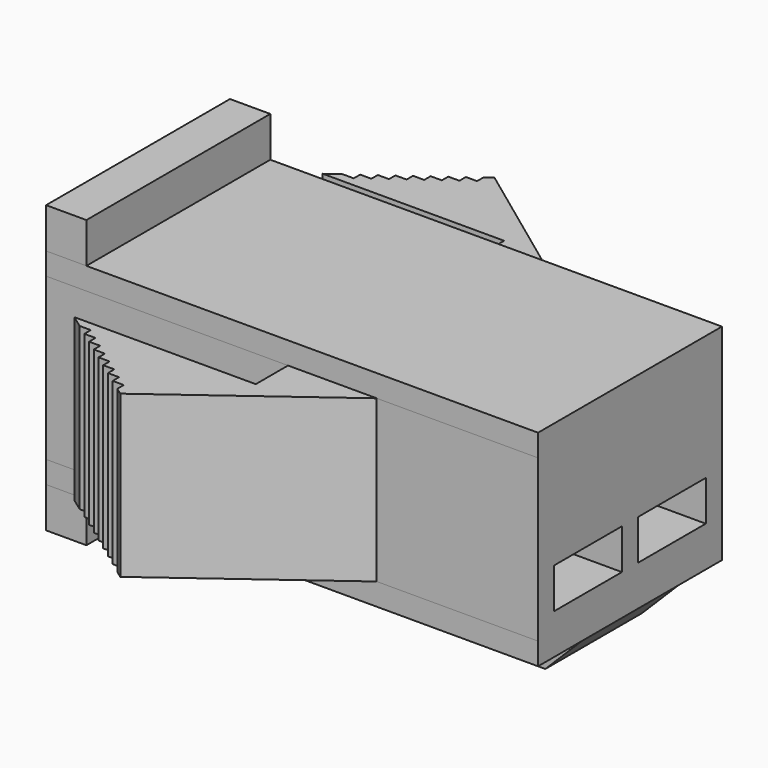
from build123d import *

# Parameters (mm, degrees)
F1_DEPTH  = 5.1
F2_W      = 3.345763
F2_H      = 0.55
F2_W_2    = 3.297828
F3_DEPTH  = 15
F5_DEPTH  = 25
F6_DEPTH  = 10
F7_W      = 5.7
F7_H      = 1
F7_W_2    = 1.2
F8_DEPTH  = 1
F11_DEPTH = 5.7
F12_W     = 1.586434
F12_H     = 1.404738
F12_W_2   = 1.617856
F12_H_2   = 1.427827
F13_DEPTH = 3
F14_W     = 2.1
F14_H     = 1
F15_DEPTH = 3
F16_W     = 2.3
F16_H     = 4.5
F17_DEPTH = 5


with BuildPart() as f1:
    # F0 (on Top) → F1 (new body)
    with BuildSketch(Plane.XY):
        Polygon((-0.1, 2.85), (-6.1, 2.85), (-6.1, -2.85), (-0.1, -2.85), (-0.1, -3.85), (-4.6, -3.85), (-1.9, -5.8), (2.1, -2.85), (6.1, -2.85), (6.1, 2.85), (2.1, 2.85), (-1.9, 5.8), (-4.6, 3.85), (-0.1, 3.85), align=None)
    extrude(amount=F1_DEPTH)

    # F2 (on face) → F3 (cut)
    with BuildSketch(Plane.YZ.offset(6.1)):
        with Locations((-4.522881, 4.825)):
            Rectangle(F2_W, F2_H)
        with Locations((-4.522881, 0.275)):
            Rectangle(F2_W, F2_H)
        with Locations((4.498914, 4.825)):
            Rectangle(F2_W_2, F2_H)
        with Locations((4.498914, 0.275)):
            Rectangle(F2_W_2, F2_H)
    extrude(amount=-F3_DEPTH, mode=Mode.SUBTRACT)

    # F4 (on face) → F5 (cut)
    with BuildSketch(Plane.XY.offset(4.55)):
        Polygon((-4.011046, 4.075356), (-4.011046, 4.275356), (-4.287969, 4.075356), align=None)
        Polygon((-3.734123, 4.275356), (-3.734123, 4.475356), (-4.011046, 4.275356), align=None)
        Polygon((-3.4572, 4.475356), (-3.4572, 4.675356), (-3.734123, 4.475356), align=None)
        Polygon((-3.180277, 4.675356), (-3.180277, 4.875356), (-3.4572, 4.675356), align=None)
        Polygon((-2.903354, 4.875356), (-2.903354, 5.075356), (-3.180277, 4.875356), align=None)
        Polygon((-2.626431, 5.075356), (-2.626431, 5.275356), (-2.903354, 5.075356), align=None)
        Polygon((-2.349508, 5.275356), (-2.349508, 5.475356), (-2.626431, 5.275356), align=None)
        Polygon((-2.349508, 5.475356), (-2.072585, 5.475356), (-2.072585, 5.675356), align=None)
        Polygon((-3.734123, -4.475356), (-3.4572, -4.675356), (-3.4572, -4.475356), align=None)
        Polygon((-2.072585, -5.475356), (-2.349508, -5.475356), (-2.072585, -5.675356), align=None)
        Polygon((-2.349508, -5.275356), (-2.626431, -5.275356), (-2.349508, -5.475356), align=None)
        Polygon((-2.626431, -5.075356), (-2.903354, -5.075356), (-2.626431, -5.275356), align=None)
        Polygon((-2.903354, -4.875356), (-3.180277, -4.875356), (-2.903354, -5.075356), align=None)
        Polygon((-3.180277, -4.675356), (-3.4572, -4.675356), (-3.180277, -4.875356), align=None)
        Polygon((-4.287969, -4.075356), (-4.011046, -4.275356), (-4.011046, -4.075356), align=None)
        Polygon((-4.011046, -4.275356), (-3.734123, -4.475356), (-3.734123, -4.275356), align=None)
    extrude(amount=-F5_DEPTH, mode=Mode.SUBTRACT)

    # F4 (on face) → F6 (cut)
    with BuildSketch(Plane.XY.offset(4.55)):
        Polygon((-4.011046, 4.075356), (-4.011046, 4.275356), (-4.287969, 4.075356), align=None)
        Polygon((-3.734123, 4.275356), (-3.734123, 4.475356), (-4.011046, 4.275356), align=None)
        Polygon((-3.4572, 4.475356), (-3.4572, 4.675356), (-3.734123, 4.475356), align=None)
        Polygon((-3.180277, 4.675356), (-3.180277, 4.875356), (-3.4572, 4.675356), align=None)
        Polygon((-2.903354, 4.875356), (-2.903354, 5.075356), (-3.180277, 4.875356), align=None)
        Polygon((-2.626431, 5.075356), (-2.626431, 5.275356), (-2.903354, 5.075356), align=None)
        Polygon((-2.349508, 5.275356), (-2.349508, 5.475356), (-2.626431, 5.275356), align=None)
        Polygon((-2.349508, 5.475356), (-2.072585, 5.475356), (-2.072585, 5.675356), align=None)
        Polygon((-3.734123, -4.475356), (-3.4572, -4.675356), (-3.4572, -4.475356), align=None)
        Polygon((-2.072585, -5.475356), (-2.349508, -5.475356), (-2.072585, -5.675356), align=None)
        Polygon((-2.349508, -5.275356), (-2.626431, -5.275356), (-2.349508, -5.475356), align=None)
        Polygon((-2.626431, -5.075356), (-2.903354, -5.075356), (-2.626431, -5.275356), align=None)
        Polygon((-2.903354, -4.875356), (-3.180277, -4.875356), (-2.903354, -5.075356), align=None)
        Polygon((-3.180277, -4.675356), (-3.4572, -4.675356), (-3.180277, -4.875356), align=None)
        Polygon((-4.287969, -4.075356), (-4.011046, -4.275356), (-4.011046, -4.075356), align=None)
        Polygon((-4.011046, -4.275356), (-3.734123, -4.475356), (-3.734123, -4.275356), align=None)
    extrude(amount=-F6_DEPTH, mode=Mode.SUBTRACT)


with BuildPart() as f8:
    # F7 (on face) → F8 (new body)
    with BuildSketch(Plane(origin=(-6.1, 0, 0), x_dir=(0, -1, 0), z_dir=(-1, 0, 0))):
        with Locations((0, 5.6)):
            Rectangle(F7_W, F7_H)
        with Locations((-2.25, -0.5)):
            Rectangle(F7_W_2, F7_H)
        with Locations((2.25, -0.5)):
            Rectangle(F7_W_2, F7_H)
    extrude(amount=-F8_DEPTH)


with BuildPart() as f1_1:
    add(f1.part)

    # F9: union F8
    add(f8.part)

    # F10 (on face) → F11 (join, through all)
    with BuildSketch(Plane(origin=(0, 2.85, 0), x_dir=(-1, 0, 0), z_dir=(0, 1, 0))):
        Polygon((-6.1, 0), (-5.2, -0.9), (-4.5, -0.9), (-4.5, 0), align=None)
    extrude(amount=-F11_DEPTH)

    # F12 (on face) → F13 (cut)
    with BuildSketch(Plane(origin=(4.5, 0, 0), x_dir=(0, -1, 0), z_dir=(-1, 0, 0))):
        with Locations((2.293217, -0.702369)):
            Rectangle(F12_W, F12_H)
        with Locations((-2.308928, -0.713913)):
            Rectangle(F12_W_2, F12_H_2)
    extrude(amount=-F13_DEPTH, mode=Mode.SUBTRACT)

    # F14 (on face) → F15 (cut)
    with BuildSketch(Plane.YZ.offset(6.1)):
        with Locations((-1.3, 1.5)):
            Rectangle(F14_W, F14_H)
        with Locations((1.3, 1.5)):
            Rectangle(F14_W, F14_H)
    extrude(amount=-F15_DEPTH, mode=Mode.SUBTRACT)

    # F16 (on face) → F17 (cut)
    with BuildSketch(Plane(origin=(-6.1, 0, 0), x_dir=(0, -1, 0), z_dir=(-1, 0, 0))):
        with Locations((-1.4, 2.55)):
            Rectangle(F16_W, F16_H)
        with Locations((1.4, 2.55)):
            Rectangle(F16_W, F16_H)
    extrude(amount=-F17_DEPTH, mode=Mode.SUBTRACT)


solid = f1_1.part
